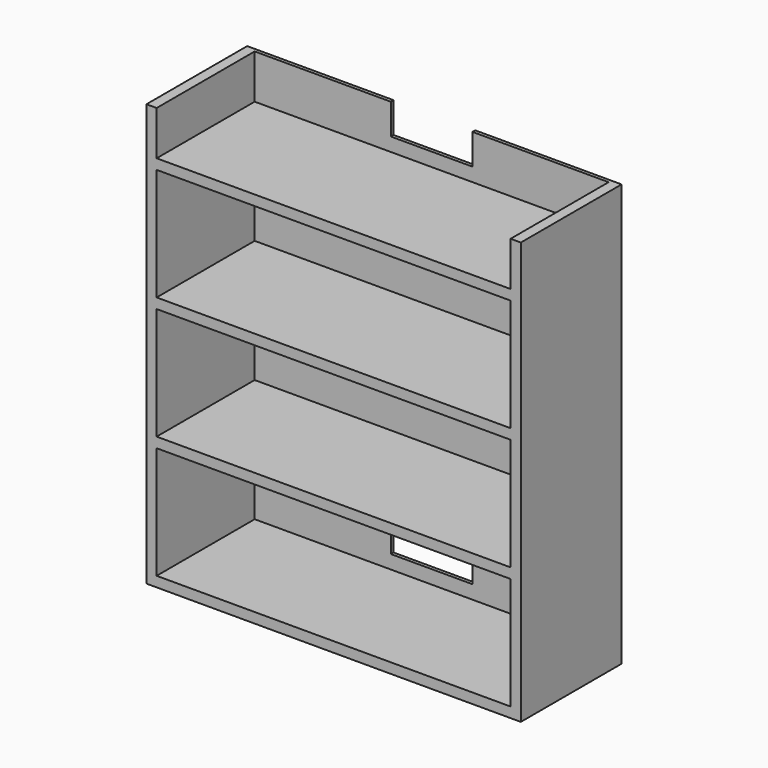
from build123d import *

# Parameters (mm, degrees)
F0_W     = 698.5
F0_H     = 787.4
F1_DEPTH = 6.35
F2_W     = 660.4
F2_H     = 19.05
F3_DEPTH = 228.6
F4_W     = 152.4
F4_H     = 76.2
F5_DEPTH = 25.4


with BuildPart() as f1:
    # F0 (on Front) → F1 (new body)
    with BuildSketch(Plane.XZ):
        with Locations((349.25, 393.7)):
            Rectangle(F0_W, F0_H)
    extrude(amount=F1_DEPTH)

    # F2 (on face) → F3 (join)
    with BuildSketch(Plane.XZ.offset(6.35)):
        Polygon((19.05, 787.4), (0, 787.4), (0, 0), (19.05, 0), (19.05, 19.05), (19.05, 228.6), (19.05, 247.65), (19.05, 457.2), (19.05, 476.25), (19.05, 685.8), (19.05, 704.85), align=None)
        Polygon((698.5, 787.4), (679.45, 787.4), (679.45, 704.85), (679.45, 685.8), (679.45, 476.25), (679.45, 457.2), (679.45, 247.65), (679.45, 228.6), (679.45, 19.05), (679.45, 0), (698.5, 0), align=None)
        with Locations((349.25, 695.325)):
            Rectangle(F2_W, F2_H)
        with Locations((349.25, 466.725)):
            Rectangle(F2_W, F2_H)
        with Locations((349.25, 238.125)):
            Rectangle(F2_W, F2_H)
        with Locations((349.25, 9.525)):
            Rectangle(F2_W, F2_H)
    extrude(amount=F3_DEPTH)

    # F4 (on face) → F5 (cut)
    with BuildSketch(Plane.XZ.offset(6.35)):
        with Locations((349.25, 768.35)):
            Rectangle(F4_W, F4_H)
        with Locations((349.25, 82.55)):
            Rectangle(F4_W, F4_H)
    extrude(amount=-F5_DEPTH, mode=Mode.SUBTRACT)


solid = f1.part
